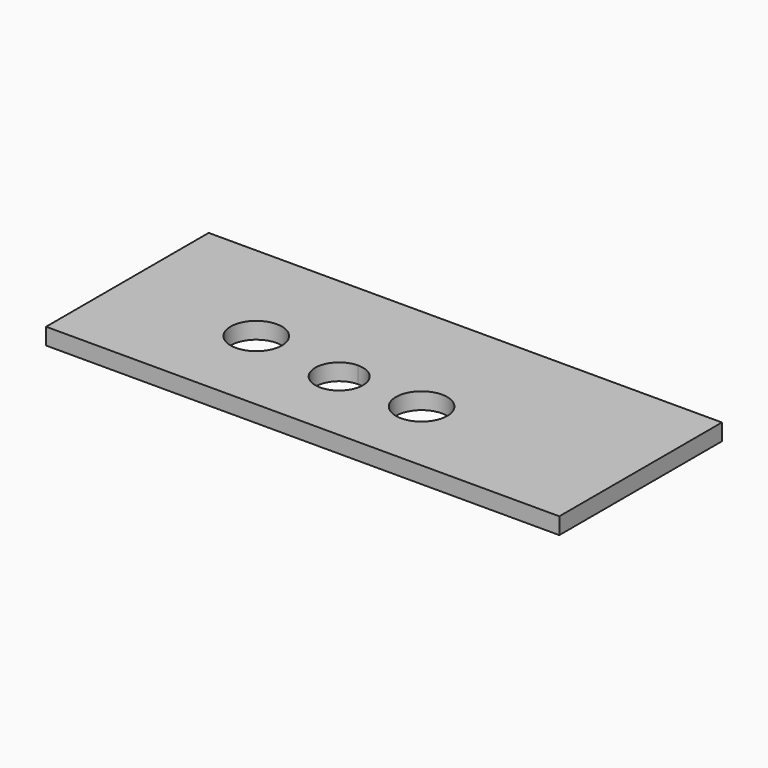
from build123d import *

# Parameters (mm, degrees)
F0_W     = 76.2
F0_H     = 30.1752
F1_DEPTH = 2.4638
F2_R     = 3.81
F3_DEPTH = 20.32


with BuildPart() as f1:
    # F0 (on Top) → F1 (new body)
    with BuildSketch(Plane.XY):
        with Locations((-4.829727, -43.646489)):
            Rectangle(F0_W, F0_H)
    extrude(amount=F1_DEPTH)

    # F2 (on Top) → F3 (cut)
    with BuildSketch(Plane.XY):
        with Locations((-22.441126, -45.335913)):
            Circle(F2_R)
        with BuildLine():
            ThreePointArc((-8.594292, -50.796484), (-6.094356, -49.760976), (-5.058848, -47.26104))
            ThreePointArc((-5.058848, -47.26104), (-6.094356, -44.761104), (-8.594292, -43.725596))
            Line((-8.594292, -43.725596), (-8.594292, -50.796484))
        make_face()
        with BuildLine():
            Line((-8.594292, -50.796484), (-8.594292, -43.725596))
            ThreePointArc((-8.594292, -43.725596), (-12.129736, -47.26104), (-8.594292, -50.796484))
        make_face()
        with Locations((3.573384, -47.173662)):
            Circle(F2_R)
    extrude(amount=F3_DEPTH, mode=Mode.SUBTRACT)


solid = f1.part
